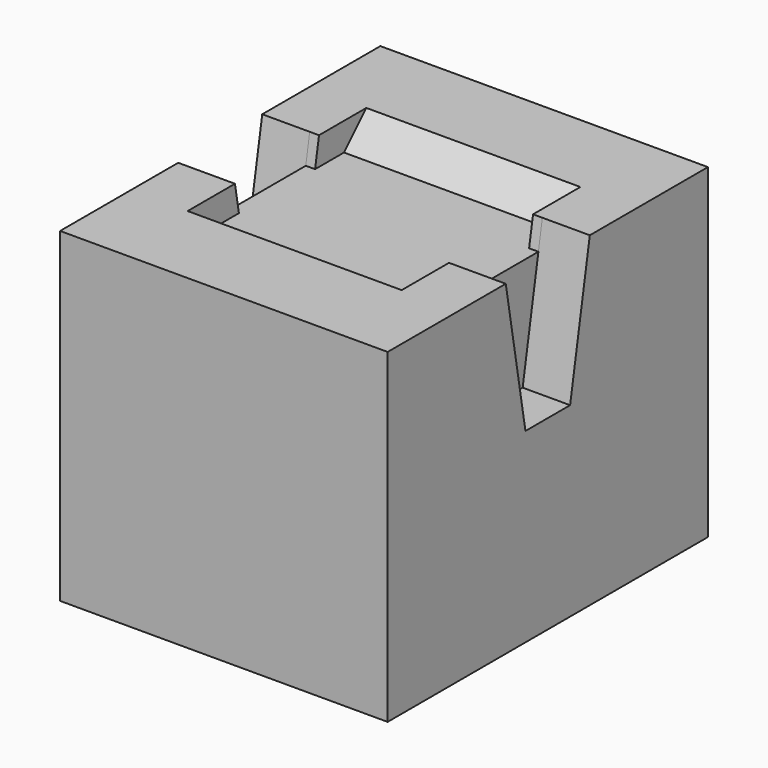
from build123d import *

# Parameters (mm, degrees)
EXTRUDE002_DEPTH = 5
SKETCH003_W      = 125
SKETCH003_H      = 90
EXTRUDE001_DEPTH = 70
SKETCH002_W      = 125
SKETCH002_H      = 120
EXTRUDE_DEPTH    = 176


with BuildPart() as extrude002:
    # Sketch004 (on Face1 of Extrude001) → Extrude002 (new body)
    with BuildSketch(Plane(origin=(25.5, 0, 0), x_dir=(0, -1, 0), z_dir=(-1, 0, 0))):
        Polygon((-81.970381, 160), (-62.55, 160), (-47.55, 175), (-79.325476, 175), align=None)
        Polygon((-133.129619, 160), (-135.774524, 175), (-167.55, 175), (-152.55, 160), align=None)
    extrude(amount=-EXTRUDE002_DEPTH)


with BuildPart() as extrude002_mirrored:
    # Mirror: instance of Extrude002
    add(extrude002.part.mirror(Plane(origin=(88, 0, 0), x_dir=(0, -1, 0), z_dir=(1, 0, 0))))


with BuildPart() as extrude001:
    # Sketch003 → Extrude001 (new body)
    with BuildSketch(Plane.XY.offset(160)):
        with Locations((88, 107.55)):
            Rectangle(SKETCH003_W, SKETCH003_H)
    extrude(amount=-EXTRUDE001_DEPTH)


with BuildPart() as loft_body:
    # Sketch002 (on Face1 of Extrude) → Loft section 0
    with BuildSketch(Plane.XY.offset(175)):
        with Locations((88, 107.55)):
            Rectangle(SKETCH002_W, SKETCH002_H)
    # Sketch003 → Loft section 1
    with BuildSketch(Plane.XY.offset(160)):
        with Locations((88, 107.55)):
            Rectangle(SKETCH003_W, SKETCH003_H)
    loft(ruled=True)


with BuildPart() as fusion001:
    # Sketch001 → Extrude (new body)
    with BuildSketch(Plane.YZ):
        Polygon((0, 0), (215.1, 0), (215.1, 175), (135.774524, 175), (122.55, 100), (92.55, 100), (79.325476, 175), (0, 175), align=None)
    extrude(amount=EXTRUDE_DEPTH)

    # Cut: cut Loft body
    add(loft_body.part, mode=Mode.SUBTRACT)

    # Fusion: union Extrude001
    add(extrude001.part)

    # Fusion001: union Extrude002 (mirrored), Extrude002
    add(extrude002_mirrored.part)
    add(extrude002.part)


solid = fusion001.part
